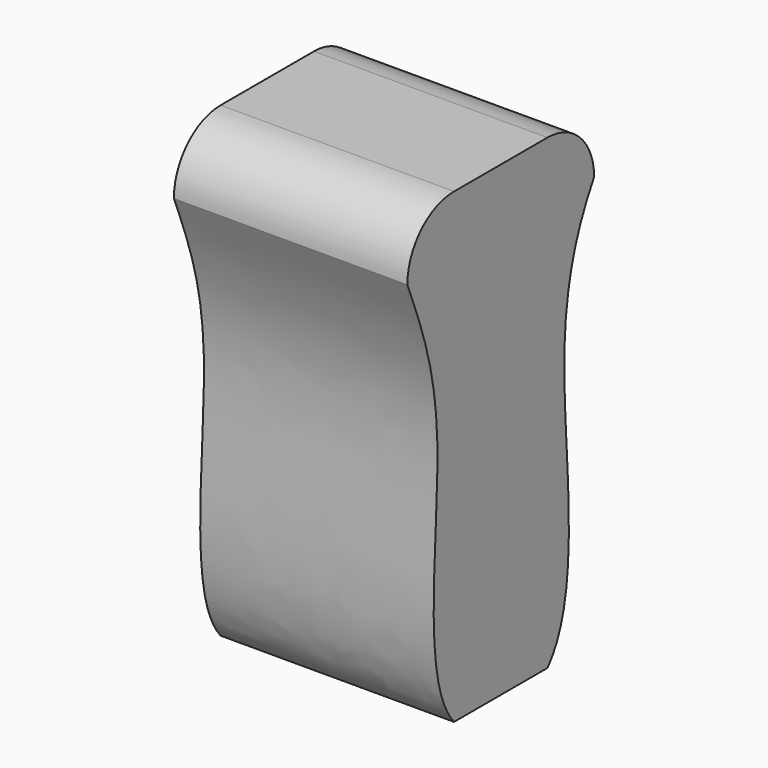
from build123d import *

# Parameters (mm, degrees)
F1_DEPTH = 25.4


with BuildPart() as f1:
    # F0 (on Right) → F1 (new body)
    with BuildSketch(Plane.YZ):
        with BuildLine():
            Line((19.05, 0), (6.35, 0))
            ThreePointArc((6.35, 0), (1.8598719395, -1.8598719395), (0, -6.35))
            add(Edge.make_bspline(
                [(6.35, -50.8), (1.7211181581, -45.4426190817), (6.4209637754, -21.7274125651), (1.8138256531, -10.9272685438), (0, -6.35)],
                knots=[0.5795473217, 0.5795473217, 0.5795473217, 0.5795473217, 0.8159167424, 1, 1, 1, 1], degree=3))
            Line((6.35, -50.8), (19.05, -50.8))
            add(Edge.make_bspline(
                [(25.4, -6.35), (22.7898144257, -10.7498483351), (19.4560523669, -21.8373222844), (23.7668665824, -45.4528841637), (19.05, -50.8)],
                knots=[0, 0, 0, 0, 0.1840832576, 0.4204526783, 0.4204526783, 0.4204526783, 0.4204526783], degree=3))
            ThreePointArc((25.4, -6.35), (23.5401280605, -1.8598719395), (19.05, 0))
        make_face()
    extrude(amount=F1_DEPTH)


solid = f1.part
